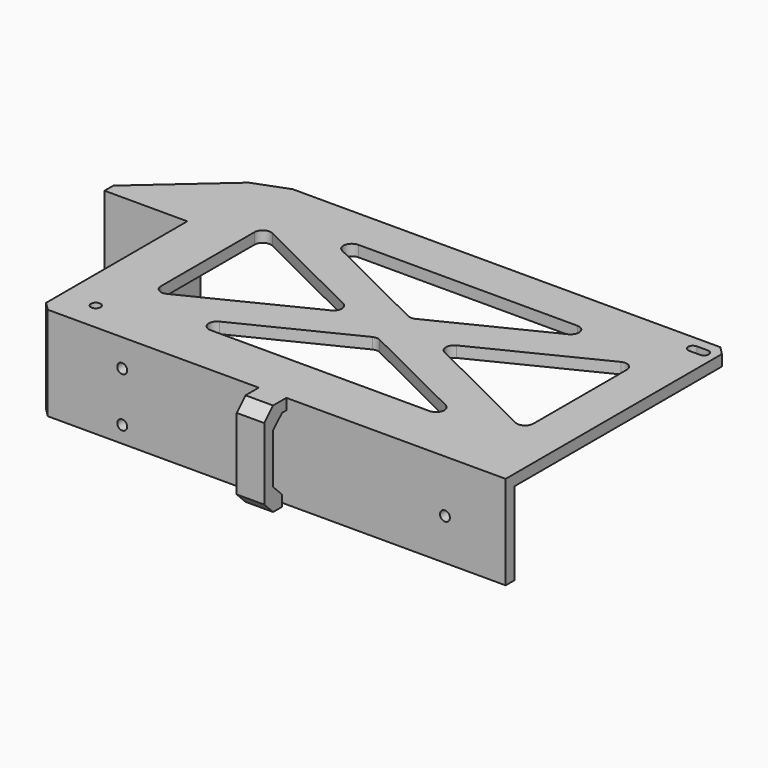
from build123d import *

# Parameters (mm, degrees)
SKETCH_R        = 1.75
PAD_DEPTH       = 4
PAD001_DEPTH    = 34
FILLET_R        = 3
CHAMFER_SIZE    = 3
SKETCH006_R     = 2.9
HOLE_DEPTH      = 25
HOLE_TIPS_R     = 2.9
SKETCH007_R     = 1.8
HOLE001_DEPTH   = 25
CHAMFER001_SIZE = 3
CHAMFER002_SIZE = 7
SKETCH008_W     = 10
SKETCH008_H     = 10
PAD002_DEPTH    = 4
SKETCH009_W     = 10
SKETCH009_H     = 4
PAD003_DEPTH    = 30
SKETCH010_W     = 10
SKETCH010_H     = 4
PAD004_DEPTH    = 4
CHAMFER003_SIZE = 3.99


with BuildPart() as part:
    # Sketch → Pad (new body)
    with BuildSketch(Plane.XY):
        Polygon((30, 0), (30, 30), (0, 30), (0, 34), (34, 64), (199, 64), (199, -33), (199, -37), (30, -37), (30, -33), align=None)
        with Locations((42, -26.5)):
            Circle(SKETCH_R, mode=Mode.SUBTRACT)
        Polygon((64, 49), (116.5, 23), (169, 49), align=None, mode=Mode.SUBTRACT)
        Polygon((116.5, 8), (64, -18), (169, -18), align=None, mode=Mode.SUBTRACT)
        Polygon((49, 41.5), (101.38806, 15.5), (49, -10.5), align=None, mode=Mode.SUBTRACT)
        Polygon((184, 41.5), (131.61194, 15.5), (184, -10.5), align=None, mode=Mode.SUBTRACT)
        with BuildLine():
            ThreePointArc((194.5, 56.75), (196.25, 58.5), (194.499999, 60.25))
            Line((194.5, 60.25), (190.5, 60.25))
            ThreePointArc((190.500001, 60.25), (188.75, 58.5), (190.5, 56.75))
            Line((194.5, 56.75), (190.5, 56.75))
        make_face(mode=Mode.SUBTRACT)
    extrude(amount=PAD_DEPTH)

    # Sketch001 (on Face24 of Pad) → Pad001 (join)
    with BuildSketch(Plane.XY.offset(4)):
        Polygon((30, 0), (30, 30), (0, 30), (0, 34), (34, 34), (34, -33), (199, -33), (199, -37), (30, -37), (30, -33), align=None)
    extrude(amount=-PAD001_DEPTH)

    # Fillet
    fillet_edges = [part.edges().sort_by_distance(p)[0] for p in [
        (49, 41.5, 2),
        (101.38806, 15.5, 2),
        (49, -10.5, 2),
        (64, -18, 2),
        (116.5, 8, 2),
        (169, -18, 2),
        (184, -10.5, 2),
        (64, 49, 2),
        (116.5, 23, 2),
        (131.61194, 15.5, 2),
        (184, 41.5, 2),
        (169, 49, 2),
    ]]
    fillet(fillet_edges, radius=FILLET_R)

    # Chamfer
    chamfer_edges = [part.edges().sort_by_distance(p)[0] for p in [
        (199, 64, 2),
    ]]
    chamfer(chamfer_edges, length=CHAMFER_SIZE)

    # Sketch006 (on Face6 of Chamfer) → Hole (cut)
    with BuildSketch(Plane(origin=(0, 34, 0), x_dir=(-1, 0, 0), z_dir=(0, 1, 0))):
        with Locations((-15, -15)):
            Circle(SKETCH006_R)
    extrude(amount=-HOLE_DEPTH, mode=Mode.SUBTRACT)

    # Hole tips → Hole tip 1 section 0
    with BuildSketch(Plane(origin=(0, 9, 0), x_dir=(-1, 0, 0), z_dir=(0, 1, 0)), mode=Mode.PRIVATE) as hole_tip_1_s0:
        with Locations((-15, -15)):
            Circle(HOLE_TIPS_R)
    loft([hole_tip_1_s0.sketch, Vertex(15, 7.257504, -15)], mode=Mode.SUBTRACT)

    # Sketch007 (on Face7 of Hole) → Hole001 (cut)
    with BuildSketch(Plane(origin=(0, -33, 0), x_dir=(-1, 0, 0), z_dir=(0, 1, 0))):
        with Locations((-177, -15)):
            Circle(SKETCH007_R)
        with Locations((-60, -6)):
            Circle(SKETCH007_R)
        with Locations((-60, -24)):
            Circle(SKETCH007_R)
    extrude(amount=-HOLE001_DEPTH, mode=Mode.SUBTRACT)

    # Chamfer001
    chamfer001_edges = [part.edges().sort_by_distance(p)[0] for p in [
        (30, -37, -13),
        (34, 34, -15),
    ]]
    chamfer(chamfer001_edges, length=CHAMFER001_SIZE)

    # Chamfer002
    chamfer002_edges = [part.edges().sort_by_distance(p)[0] for p in [
        (34, 64, 2),
    ]]
    chamfer(chamfer002_edges, length=CHAMFER002_SIZE)

    # Sketch008 (on Face41 of Chamfer002) → Pad002 (join)
    with BuildSketch(Plane.XY.offset(4)):
        with Locations((114.5, -42)):
            Rectangle(SKETCH008_W, SKETCH008_H)
    extrude(amount=-PAD002_DEPTH)

    # Sketch009 (on Face51 of Pad002) → Pad003 (join)
    with BuildSketch(Plane(origin=(0, 0, 0), x_dir=(1, 0, 0), z_dir=(0, 0, -1))):
        with Locations((114.5, 45)):
            Rectangle(SKETCH009_W, SKETCH009_H)
    extrude(amount=PAD003_DEPTH)

    # Sketch010 (on Face52 of Pad003) → Pad004 (join)
    with BuildSketch(Plane(origin=(0, -43, 0), x_dir=(-1, 0, 0), z_dir=(0, 1, 0))):
        with Locations((-114.5, -28)):
            Rectangle(SKETCH010_W, SKETCH010_H)
    extrude(amount=PAD004_DEPTH)

    # Chamfer003
    chamfer003_edges = [part.edges().sort_by_distance(p)[0] for p in [
        (114.5, -47, 4),
        (114.5, -47, -30),
        (114.5, -43, -26),
        (114.5, -43, 0),
    ]]
    chamfer(chamfer003_edges, length=CHAMFER003_SIZE)


solid = part.part
